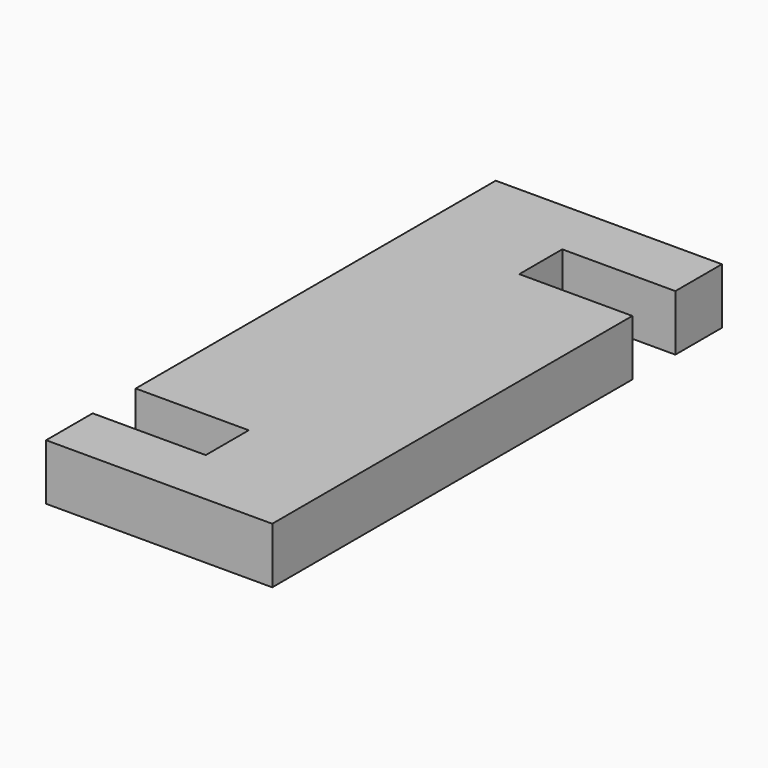
from build123d import *

# Parameters (mm, degrees)
PAD_DEPTH = 5


with BuildPart() as part:
    # Sketch012 → Pad (new body)
    with BuildSketch(Plane(origin=(0, -5, 100), x_dir=(1, 0, 0), z_dir=(0, 0, 1))):
        Polygon((-10.1, 25.1), (10.1, 25.1), (10.1, 19.9), (0, 19.9), (0, 15.1), (10.1, 15.1), (10.1, -25.1), (-10.1, -25.1), (-10.1, -19.9), (0, -19.9), (0, -15.1), (-10.1, -15.1), align=None)
    extrude(amount=PAD_DEPTH)


solid = part.part
